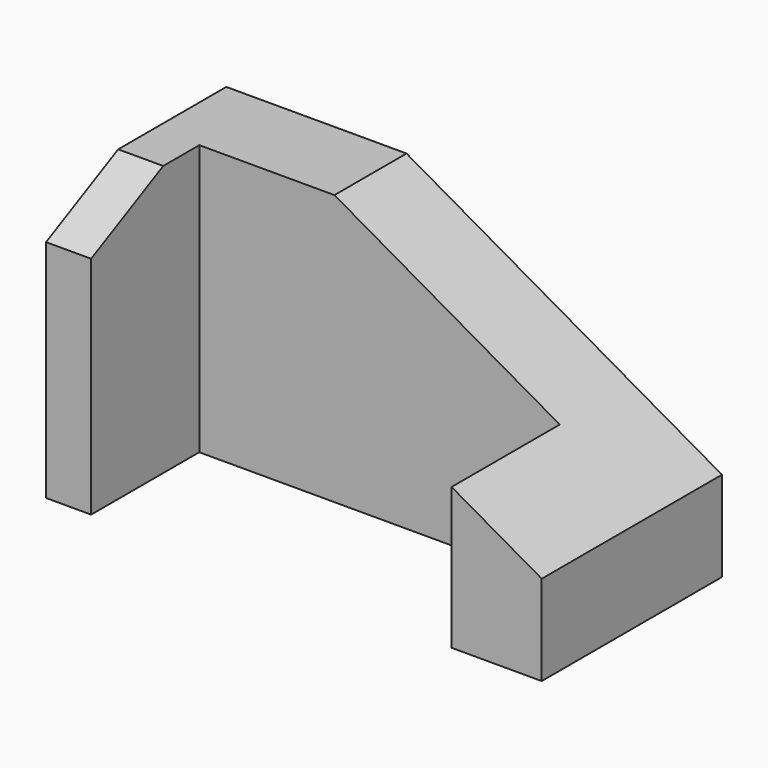
from build123d import *

# Parameters (mm, degrees)
F1_DEPTH = 60
F2_SIZE2 = 20
F2_SIZE  = 10
F3_SIZE2 = 70
F3_SIZE  = 40


with BuildPart() as f1:
    # F0 (on Top) → F1 (new body)
    with BuildSketch(Plane.XY):
        Polygon((110, 0), (0, 0), (0, -50), (10, -50), (10, -20), (90, -20), (90, -50), (110, -50), align=None)
    extrude(amount=F1_DEPTH)

    # F2
    f2_edges = [f1.edges().sort_by_distance(p)[0] for p in [
        (5, -50, 60),
    ]]
    f2_side = f1.faces().sort_by_distance((5, -50, 30))[0]
    chamfer(f2_edges, length=F2_SIZE, length2=F2_SIZE2, reference=f2_side)

    # F3
    f3_edges = [f1.edges().sort_by_distance(p)[0] for p in [
        (110, -25, 60),
    ]]
    f3_side = f1.faces().sort_by_distance((110, -25, 30))[0]
    chamfer(f3_edges, length=F3_SIZE, length2=F3_SIZE2, reference=f3_side)


solid = f1.part
